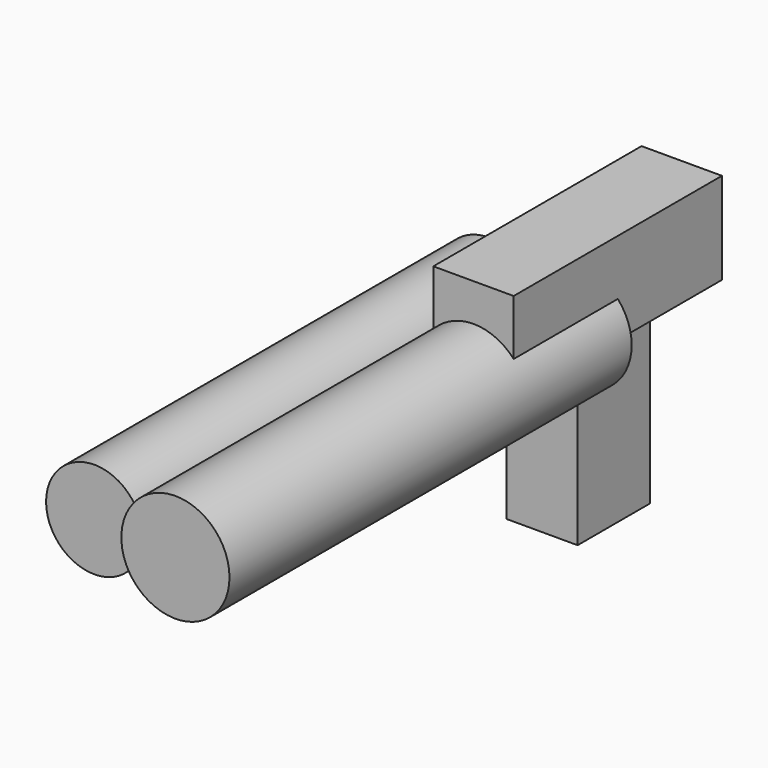
from build123d import *

# Parameters (mm, degrees)
F0_R     = 14.532496
F1_DEPTH = 135.128
F2_W     = 21.599732
F2_H     = 69.967128
F3_DEPTH = 24.638
F5_DEPTH = 52.07
F6_R     = 12.97612
F7_DEPTH = 132.334


with BuildPart() as f1:
    # F0 (on Front) → F1 (new body)
    with BuildSketch(Plane.XZ):
        Circle(F0_R)
    extrude(amount=F1_DEPTH)

    # F2 (on Top) → F3 (join)
    with BuildSketch(Plane.XY):
        Rectangle(F2_W, F2_H)
    extrude(amount=F3_DEPTH)

    # F4 (on Top) → F5 (join)
    with BuildSketch(Plane.XY):
        Polygon((-19.11266, 0), (0, 0), (0, 24.325365), (-19.11266, 24.325365), (-19.11266, 3.464378), align=None)
    extrude(amount=-F5_DEPTH)

    # F6 (on Front) → F7 (join)
    with BuildSketch(Plane.XZ):
        with Locations((-24.016608, 0)):
            Circle(F6_R)
    extrude(amount=F7_DEPTH)


solid = f1.part
